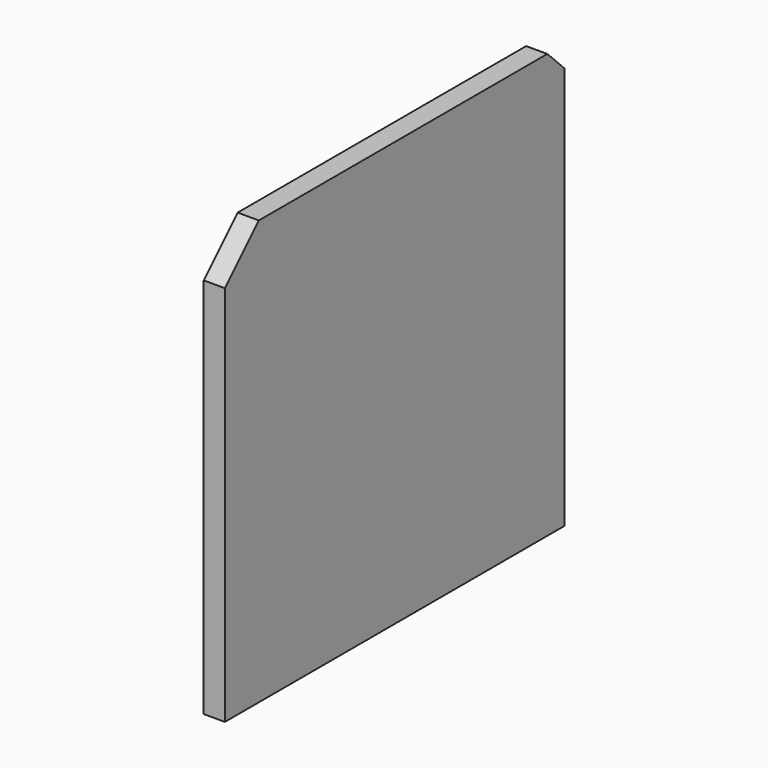
from build123d import *

# Parameters (mm, degrees)
PAD_DEPTH = 0.5


with BuildPart() as part:
    # Sketch (on YZ_Plane of Origin) → Pad (new body)
    with BuildSketch(Plane.YZ):
        Polygon((-5, -5), (5, -5), (5, 4.5), (4.5, 5), (-4, 5), (-5, 4), align=None)
    extrude(amount=PAD_DEPTH)


solid = part.part
